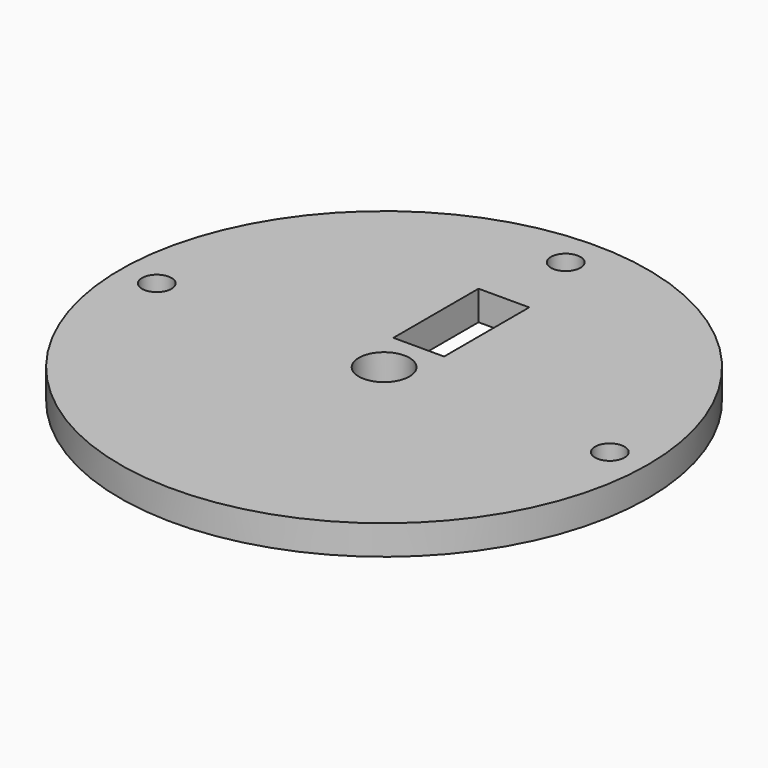
from build123d import *

# Parameters (mm, degrees)
F0_R     = 15.875
F1_DEPTH = 1.778
F3_R     = 0.889
F4_DEPTH = 1.91313
F5_R     = 1.524
F5_W     = 3.048
F5_H     = 6.400035
F6_DEPTH = 2.22015


with BuildPart() as f1:
    # F0 (on Top) → F1 (new body)
    with BuildSketch(Plane.XY):
        Circle(F0_R)
    extrude(amount=-F1_DEPTH)

    # F3 (on face) → F4 (cut)
    with BuildSketch(Plane.XY):
        with Locations((0, 13.652203)):
            Circle(F3_R)
        with Locations((-13.659894, -0.015021)):
            Circle(F3_R)
        with Locations((13.674476, -0.124876)):
            Circle(F3_R)
    extrude(amount=-F4_DEPTH, mode=Mode.SUBTRACT)

    # F5 (on face) → F6 (cut)
    with BuildSketch(Plane.XY):
        Circle(F5_R)
        with Locations((0, 5.805492)):
            Rectangle(F5_W, F5_H)
    extrude(amount=-F6_DEPTH, mode=Mode.SUBTRACT)


solid = f1.part
